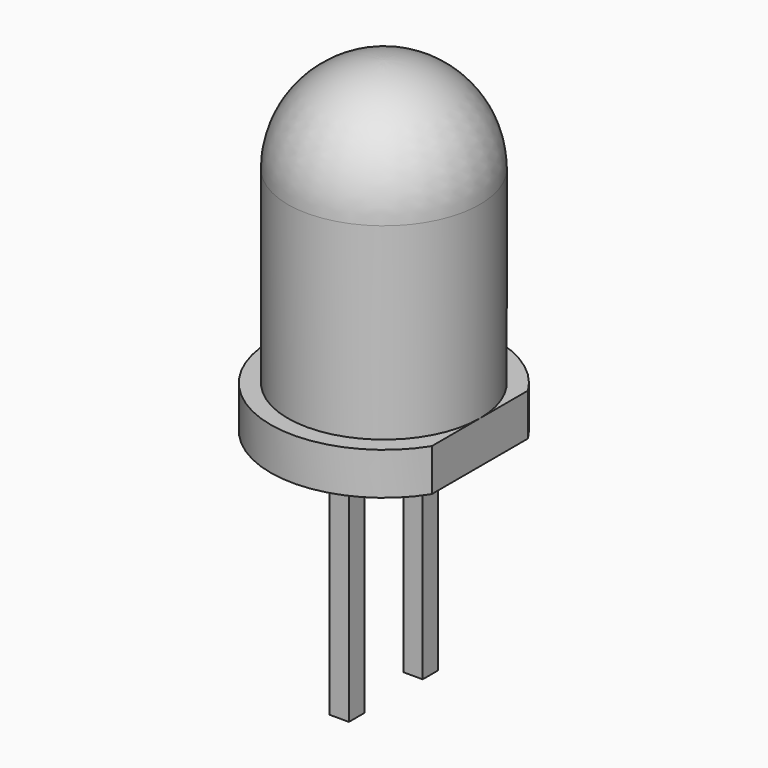
from build123d import *

# Parameters (mm, degrees)
F3_DEPTH = 1.1
F4_W     = 0.5
F4_H     = 0.5
F5_DEPTH = 6


with BuildPart() as f1:
    # F0 (on Front) → F1 (revolve)
    with BuildSketch(Plane.XZ):
        with BuildLine():
            Line((0, 0), (0, 8.5))
            ThreePointArc((0, 8.5), (-1.767767, 7.767767), (-2.5, 6))
            Line((-2.5, 6), (-2.5, 1.1))
            Line((-2.5, 1.1), (-2.95, 1.1))
            Line((-2.95, 1.1), (-2.95, 0))
            Line((-2.95, 0), (0, 0))
        make_face()
    revolve(axis=Axis((0, 0, 11.292809), (0, 0, 1)))

    # F2 (on face) → F3 (cut, through all)
    with BuildSketch(Plane.XY.offset(1.1)):
        with BuildLine():
            Line((2.5, 1.566046), (2.5, -1.566046))
            ThreePointArc((2.5, -1.566046), (2.95, 0), (2.5, 1.566046))
        make_face()
    extrude(amount=-F3_DEPTH, mode=Mode.SUBTRACT)

    # F4 (on face) → F5 (join)
    with BuildSketch(Plane(origin=(0, 0, 0), x_dir=(1, 0, 0), z_dir=(0, 0, -1))):
        with Locations((0, 1.2)):
            Rectangle(F4_W, F4_H)
        with Locations((0, -1.2)):
            Rectangle(F4_W, F4_H)
    extrude(amount=F5_DEPTH)


solid = f1.part
